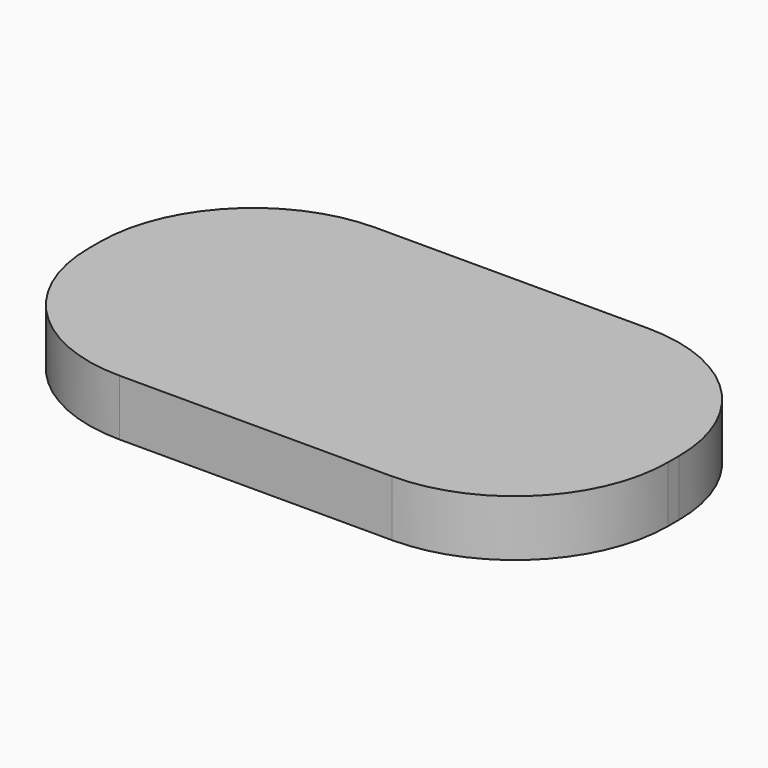
from build123d import *

# Parameters (mm, degrees)
F2_DEPTH = 16.5
F3_DEPTH = 21


with BuildPart() as f2:
    # F1 (on face) → F2 (new body)
    with BuildSketch(Plane.XY):
        with BuildLine():
            Line((-40, -47), (40, -47))
            ThreePointArc((40, -47), (71.819805, -33.819805), (85, -2))
            Line((85, -2), (85, 2))
            ThreePointArc((85, 2), (71.819805, 33.819805), (40, 47))
            Line((40, 47), (-40, 47))
            ThreePointArc((-40, 47), (-71.819805, 33.819805), (-85, 2))
            Line((-85, 2), (-85, -2))
            ThreePointArc((-85, -2), (-71.819805, -33.819805), (-40, -47))
        make_face()
    extrude(amount=F2_DEPTH)

    # F0 (on Top) → F3 (intersect)
    with BuildSketch(Plane.XY):
        with BuildLine():
            Line((-44.5, -51.5), (44.5, -51.5))
            ThreePointArc((44.5, -51.5), (76.319805, -38.319805), (89.5, -6.5))
            Line((89.5, -6.5), (89.5, 6.5))
            ThreePointArc((89.5, 6.5), (76.319805, 38.319805), (44.5, 51.5))
            Line((44.5, 51.5), (-44.5, 51.5))
            ThreePointArc((-44.5, 51.5), (-76.319805, 38.319805), (-89.5, 6.5))
            Line((-89.5, 6.5), (-89.5, -6.5))
            ThreePointArc((-89.5, -6.5), (-76.319805, -38.319805), (-44.5, -51.5))
        make_face()
    extrude(amount=F3_DEPTH, mode=Mode.INTERSECT)


solid = f2.part
